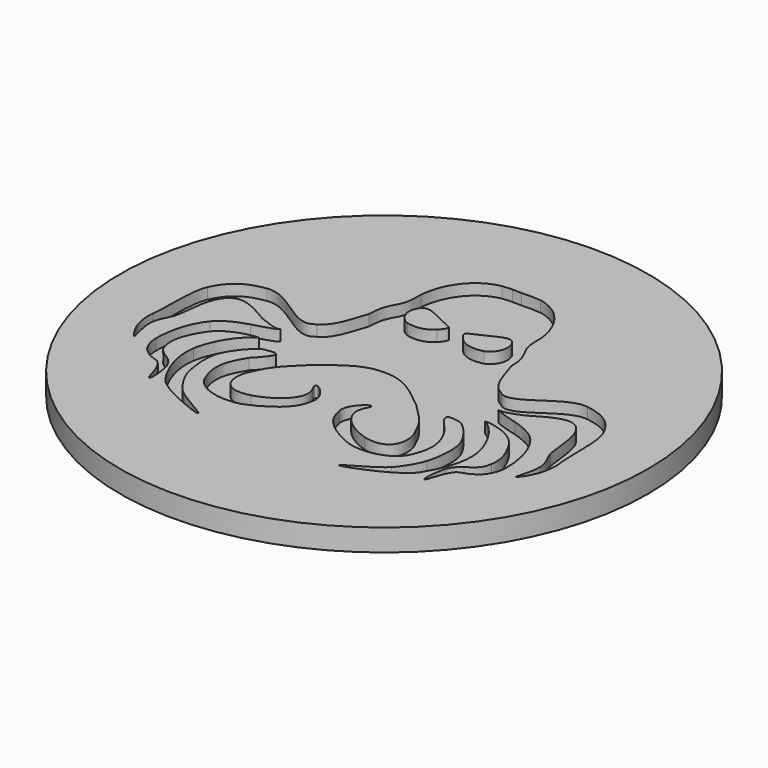
from build123d import *

# Parameters (mm, degrees)
SKETCH001_R  = 120
PAD_DEPTH    = 10
POCKET_DEPTH = 5


with BuildPart() as part:
    # Sketch001 (on DatumPlane) → Pad (new body)
    with BuildSketch(Plane.XY):
        Circle(SKETCH001_R)
    extrude(amount=-PAD_DEPTH)

    # Sketch002 (on DatumPlane) → Pocket (cut)
    with BuildSketch(Plane(origin=(-125, 95, 0), x_dir=(1, 0, 0), z_dir=(0, 0, 1))):
        with BuildLine():
            add(Edge.make_bspline(
                [(121.198817, -17.303386), (119.668431, -17.33213), (118.168322, -17.42203), (116.735185, -17.550077)],
                knots=[0, 0, 0, 0, 1, 1, 1, 1], degree=3))
            add(Edge.make_bspline(
                [(116.735185, -17.550077), (105.612181, -19.815861), (99.212248, -30.266961), (98.366507, -40.708451)],
                knots=[0, 0, 0, 0, 1, 1, 1, 1], degree=3))
            add(Edge.make_bspline(
                [(98.366507, -40.708451), (98.891494, -54.174254), (93.495596, -50.875516), (93.22509, -63.781341)],
                knots=[0, 0, 0, 0, 1, 1, 1, 1], degree=3))
            add(Edge.make_bspline(
                [(93.22509, -63.781341), (91.13871, -69.131156), (89.67416, -78.551192), (83.659114, -81.585801)],
                knots=[0, 0, 0, 0, 1, 1, 1, 1], degree=3))
            add(Edge.make_bspline(
                [(83.659114, -81.585801), (76.281758, -88.290956), (63.465228, -69.485818), (52.690904, -71.114891)],
                knots=[0, 0, 0, 0, 1, 1, 1, 1], degree=3))
            add(Edge.make_bspline(
                [(52.690904, -71.114891), (45.730317, -72.167328), (39.572196, -74.651615), (35.578887, -83.492158)],
                knots=[0, 0, 0, 0, 1, 1, 1, 1], degree=3))
            add(Edge.make_bspline(
                [(35.578887, -83.492158), (32.648549, -89.979455), (34.025795, -105.990633), (33.109539, -111.320558)],
                knots=[0, 0, 0, 0, 1, 1, 1, 1], degree=3))
            add(Edge.make_bspline(
                [(33.109539, -111.320558), (32.760518, -113.350844), (32.800605, -117.633008), (34.38085, -121.99664)],
                knots=[0, 0, 0, 0, 1, 1, 1, 1], degree=3))
            add(Edge.make_bspline(
                [(34.38085, -121.99664), (35.548331, -125.220482), (38.240104, -129.069018), (38.699156, -129.081055)],
                knots=[0, 0, 0, 0, 1, 1, 1, 1], degree=3))
            add(Edge.make_bspline(
                [(38.699156, -129.081055), (39.378896, -129.098875), (36.783547, -122.914906), (36.828216, -117.851748)],
                knots=[0, 0, 0, 0, 1, 1, 1, 1], degree=3))
            add(Edge.make_bspline(
                [(36.828216, -117.851748), (36.866483, -113.514003), (39.51192, -110.458954), (40.279441, -107.659279)],
                knots=[0, 0, 0, 0, 1, 1, 1, 1], degree=3))
            add(Edge.make_bspline(
                [(40.279441, -107.659279), (41.699194, -102.480464), (40.742176, -88.137257), (48.015997, -84.449611)],
                knots=[0, 0, 0, 0, 1, 1, 1, 1], degree=3))
            add(Edge.make_bspline(
                [(48.015997, -84.449611), (53.580981, -81.628301), (63.30285, -89.076257), (65.838778, -90.17112)],
                knots=[0, 0, 0, 0, 1, 1, 1, 1], degree=3))
            add(Edge.make_bspline(
                [(65.838778, -90.17112), (74.319901, -93.832762), (75.226143, -92.783713), (75.929884, -92.663672)],
                knots=[0, 0, 0, 0, 1, 1, 1, 1], degree=3))
            add(Edge.make_bspline(
                [(75.929884, -92.663672), (74.908535, -93.855815), (68.160417, -95.522661), (65.37226, -96.335943)],
                knots=[0, 0, 0, 0, 1, 1, 1, 1], degree=3))
            add(Edge.make_bspline(
                [(65.37226, -96.335943), (60.710497, -97.795523), (55.68363, -99.755191), (52.622515, -103.562021)],
                knots=[0, 0, 0, 0, 1, 1, 1, 1], degree=3))
            add(Edge.make_bspline(
                [(52.622515, -103.562021), (47.789491, -109.572408), (45.856249, -117.959033), (45.800667, -125.671349)],
                knots=[0, 0, 0, 0, 1, 1, 1, 1], degree=3))
            add(Edge.make_bspline(
                [(45.800667, -125.671349), (45.781221, -128.369392), (46.639916, -131.15416), (48.075838, -133.43844)],
                knots=[0, 0, 0, 0, 1, 1, 1, 1], degree=3))
            add(Edge.make_bspline(
                [(48.075838, -133.43844), (49.0352, -134.964604), (50.589346, -136.065013), (52.093718, -137.058194)],
                knots=[0, 0, 0, 0, 1, 1, 1, 1], degree=3))
            add(Edge.make_bspline(
                [(52.093718, -137.058194), (53.859264, -138.223806), (56.374472, -138.21227), (57.853085, -139.725385)],
                knots=[0, 0, 0, 0, 1, 1, 1, 1], degree=3))
            add(Edge.make_bspline(
                [(57.853085, -139.725385), (60.601443, -142.537853), (61.829802, -149.474729), (62.562187, -150.541904)],
                knots=[0, 0, 0, 0, 1, 1, 1, 1], degree=3))
            add(Edge.make_bspline(
                [(62.562187, -150.541904), (63.968649, -152.591299), (63.315999, -143.092028), (62.024844, -139.718057)],
                knots=[0, 0, 0, 0, 1, 1, 1, 1], degree=3))
            add(Edge.make_bspline(
                [(62.024844, -139.718057), (61.244664, -137.679336), (59.755784, -135.780938), (57.900718, -134.63037)],
                knots=[0, 0, 0, 0, 1, 1, 1, 1], degree=3))
            add(Edge.make_bspline(
                [(57.900718, -134.63037), (52.74863, -131.434902), (52.389155, -130.056809), (51.752992, -126.799777)],
                knots=[0, 0, 0, 0, 1, 1, 1, 1], degree=3))
            add(Edge.make_bspline(
                [(51.752992, -126.799777), (50.719831, -121.510201), (53.344622, -115.820499), (56.217847, -111.260719)],
                knots=[0, 0, 0, 0, 1, 1, 1, 1], degree=3))
            add(Edge.make_bspline(
                [(56.217847, -111.260719), (57.765477, -108.804639), (60.171123, -106.847803), (62.730717, -105.478145)],
                knots=[0, 0, 0, 0, 1, 1, 1, 1], degree=3))
            add(Edge.make_bspline(
                [(62.730717, -105.478145), (66.199299, -103.622097), (70.881789, -102.44039), (74.145649, -102.482446)],
                knots=[0, 0, 0, 0, 1, 1, 1, 1], degree=3))
            add(Edge.make_bspline(
                [(74.145649, -102.482446), (68.267083, -105.413885), (62.220218, -115.284845), (61.009992, -123.440143)],
                knots=[0, 0, 0, 0, 1, 1, 1, 1], degree=3))
            add(Edge.make_bspline(
                [(61.009992, -123.440143), (59.795139, -131.626568), (63.049363, -140.434897), (67.517985, -147.400879)],
                knots=[0, 0, 0, 0, 1, 1, 1, 1], degree=3))
            add(Edge.make_bspline(
                [(67.517985, -147.400879), (69.322291, -150.213554), (72.351929, -152.099702), (75.215457, -153.822159)],
                knots=[0, 0, 0, 0, 1, 1, 1, 1], degree=3))
            add(Edge.make_bspline(
                [(75.215457, -153.822159), (80.858595, -157.216583), (93.242216, -162.169767), (93.50475, -161.293707)],
                knots=[0, 0, 0, 0, 1, 1, 1, 1], degree=3))
            add(Edge.make_bspline(
                [(93.50475, -161.293707), (93.813224, -160.264354), (82.264676, -155.288147), (77.968137, -150.732419)],
                knots=[0, 0, 0, 0, 1, 1, 1, 1], degree=3))
            add(Edge.make_bspline(
                [(77.968137, -150.732419), (74.898637, -147.477751), (71.929569, -142.04221), (71.085222, -139.210021)],
                knots=[0, 0, 0, 0, 1, 1, 1, 1], degree=3))
            add(Edge.make_bspline(
                [(71.085222, -139.210021), (69.934197, -135.349149), (68.492126, -126.764211), (70.514903, -121.058727)],
                knots=[0, 0, 0, 0, 1, 1, 1, 1], degree=3))
            add(Edge.make_bspline(
                [(70.514903, -121.058727), (72.37669, -115.807337), (78.789548, -108.486393), (81.446229, -108.414004)],
                knots=[0, 0, 0, 0, 1, 1, 1, 1], degree=3))
            add(Edge.make_bspline(
                [(81.446229, -108.414004), (83.455181, -108.359293), (92.5809, -104.99355), (80.951624, -116.78683)],
                knots=[0, 0, 0, 0, 1, 1, 1, 1], degree=3))
            add(Edge.make_bspline(
                [(80.951624, -116.78683), (75.361353, -125.652522), (75.486339, -130.979783), (78.146434, -137.705453)],
                knots=[0, 0, 0, 0, 1, 1, 1, 1], degree=3))
            add(Edge.make_bspline(
                [(78.146434, -137.705453), (80.881424, -146.123036), (92.916623, -148.512831), (101.209558, -146.07217)],
                knots=[0, 0, 0, 0, 1, 1, 1, 1], degree=3))
            add(Edge.make_bspline(
                [(101.209558, -146.07217), (106.060009, -144.183846), (111.803673, -141.063968), (115.461431, -137.028887)],
                knots=[0, 0, 0, 0, 1, 1, 1, 1], degree=3))
            add(Edge.make_bspline(
                [(115.461431, -137.028887), (117.57341, -134.699031), (118.689007, -132.465568), (119.31078, -128.954043)],
                knots=[0, 0, 0, 0, 1, 1, 1, 1], degree=3))
            add(Edge.make_bspline(
                [(119.31078, -128.954043), (121.719214, -122.881879), (109.199109, -113.547843), (113.638117, -121.476392)],
                knots=[0, 0, 0, 0, 1, 1, 1, 1], degree=3))
            add(Edge.make_bspline(
                [(113.638117, -121.476392), (117.573816, -129.397769), (107.293127, -136.642867), (99.560882, -138.803349)],
                knots=[0, 0, 0, 0, 1, 1, 1, 1], degree=3))
            add(Edge.make_bspline(
                [(99.560882, -138.803349), (85.868905, -142.187437), (85.109984, -130.608251), (88.188694, -124.727334)],
                knots=[0, 0, 0, 0, 1, 1, 1, 1], degree=3))
            add(Edge.make_bspline(
                [(88.188694, -124.727334), (91.83179, -116.146361), (95.05809, -113.989675), (101.056903, -107.909633)],
                knots=[0, 0, 0, 0, 1, 1, 1, 1], degree=3))
            add(Edge.make_bspline(
                [(101.056903, -107.909633), (108.208417, -102.338464), (115.175574, -95.304484), (125.205704, -95.493285)],
                knots=[0, 0, 0, 0, 1, 1, 1, 1], degree=3))
            add(Edge.make_bspline(
                [(125.205704, -95.493285), (125.205704, -95.506729)],
                knots=[0, 0, 0.0215, 0.0215], degree=1))
            add(Edge.make_bspline(
                [(125.205704, -95.506729), (125.299908, -95.502352), (125.391705, -95.503602), (125.485371, -95.500476)],
                knots=[0, 0, 0, 0, 1, 1, 1, 1], degree=3))
            add(Edge.make_bspline(
                [(125.485371, -95.500476), (125.579325, -95.503602), (125.671759, -95.502352), (125.76625, -95.506729)],
                knots=[0, 0, 0, 0, 1, 1, 1, 1], degree=3))
            add(Edge.make_bspline(
                [(125.76625, -95.506729), (125.76625, -95.493285)],
                knots=[0, 0, 0.0215, 0.0215], degree=1))
            add(Edge.make_bspline(
                [(125.76625, -95.493285), (135.796005, -95.304834), (142.763713, -102.338595), (149.915058, -107.909633)],
                knots=[0, 0, 0, 0, 1, 1, 1, 1], degree=3))
            add(Edge.make_bspline(
                [(149.915058, -107.909633), (155.913871, -113.989675), (159.138945, -116.146361), (162.782041, -124.727334)],
                knots=[0, 0, 0, 0, 1, 1, 1, 1], degree=3))
            add(Edge.make_bspline(
                [(162.782041, -124.727334), (165.860751, -130.608251), (165.10183, -142.187437), (151.409853, -138.803349)],
                knots=[0, 0, 0, 0, 1, 1, 1, 1], degree=3))
            add(Edge.make_bspline(
                [(151.409853, -138.803349), (143.677609, -136.642867), (133.396919, -129.397769), (137.332618, -121.476392)],
                knots=[0, 0, 0, 0, 1, 1, 1, 1], degree=3))
            add(Edge.make_bspline(
                [(137.332618, -121.476392), (141.771627, -113.547843), (129.251527, -122.881879), (131.659961, -128.954043)],
                knots=[0, 0, 0, 0, 1, 1, 1, 1], degree=3))
            add(Edge.make_bspline(
                [(131.659961, -128.954043), (132.281735, -132.465568), (133.397331, -134.699031), (135.50931, -137.028887)],
                knots=[0, 0, 0, 0, 1, 1, 1, 1], degree=3))
            add(Edge.make_bspline(
                [(135.50931, -137.028887), (139.167069, -141.063968), (144.910732, -144.183846), (149.761178, -146.07217)],
                knots=[0, 0, 0, 0, 1, 1, 1, 1], degree=3))
            add(Edge.make_bspline(
                [(149.761178, -146.07217), (158.054118, -148.512831), (170.089311, -146.123005), (172.824301, -137.705453)],
                knots=[0, 0, 0, 0, 1, 1, 1, 1], degree=3))
            add(Edge.make_bspline(
                [(172.824301, -137.705453), (175.484396, -130.979783), (175.609382, -125.652522), (170.019111, -116.78683)],
                knots=[0, 0, 0, 0, 1, 1, 1, 1], degree=3))
            add(Edge.make_bspline(
                [(170.019111, -116.78683), (158.389835, -104.99355), (167.51556, -108.359293), (169.524513, -108.414004)],
                knots=[0, 0, 0, 0, 1, 1, 1, 1], degree=3))
            add(Edge.make_bspline(
                [(169.524513, -108.414004), (172.181193, -108.486393), (178.594045, -115.807337), (180.455832, -121.058727)],
                knots=[0, 0, 0, 0, 1, 1, 1, 1], degree=3))
            add(Edge.make_bspline(
                [(180.455832, -121.058727), (182.478609, -126.764211), (181.036538, -135.349149), (179.885513, -139.210021)],
                knots=[0, 0, 0, 0, 1, 1, 1, 1], degree=3))
            add(Edge.make_bspline(
                [(179.885513, -139.210021), (179.041166, -142.04221), (176.072105, -147.477751), (173.002605, -150.732419)],
                knots=[0, 0, 0, 0, 1, 1, 1, 1], degree=3))
            add(Edge.make_bspline(
                [(173.002605, -150.732419), (168.706065, -155.288147), (157.157512, -160.264354), (157.465985, -161.293707)],
                knots=[0, 0, 0, 0, 1, 1, 1, 1], degree=3))
            add(Edge.make_bspline(
                [(157.465985, -161.293707), (157.728519, -162.169767), (170.11214, -157.216583), (175.755278, -153.822159)],
                knots=[0, 0, 0, 0, 1, 1, 1, 1], degree=3))
            add(Edge.make_bspline(
                [(175.755278, -153.822159), (178.618806, -152.099702), (181.648451, -150.213554), (183.452757, -147.400879)],
                knots=[0, 0, 0, 0, 1, 1, 1, 1], degree=3))
            add(Edge.make_bspline(
                [(183.452757, -147.400879), (187.921378, -140.434897), (191.175597, -131.626568), (189.960744, -123.440143)],
                knots=[0, 0, 0, 0, 1, 1, 1, 1], degree=3))
            add(Edge.make_bspline(
                [(189.960744, -123.440143), (188.750518, -115.284845), (182.704871, -105.413885), (176.826305, -102.482446)],
                knots=[0, 0, 0, 0, 1, 1, 1, 1], degree=3))
            add(Edge.make_bspline(
                [(176.826305, -102.482446), (180.090165, -102.440365), (184.772662, -103.622097), (188.241237, -105.478145)],
                knots=[0, 0, 0, 0, 1, 1, 1, 1], degree=3))
            add(Edge.make_bspline(
                [(188.241237, -105.478145), (190.800832, -106.847803), (193.206483, -108.804639), (194.754114, -111.260719)],
                knots=[0, 0, 0, 0, 1, 1, 1, 1], degree=3))
            add(Edge.make_bspline(
                [(194.754114, -111.260719), (197.62734, -115.820499), (200.252126, -121.510201), (199.218965, -126.799777)],
                knots=[0, 0, 0, 0, 1, 1, 1, 1], degree=3))
            add(Edge.make_bspline(
                [(199.218965, -126.799777), (198.582804, -130.056809), (198.223327, -131.434902), (193.071243, -134.63037)],
                knots=[0, 0, 0, 0, 1, 1, 1, 1], degree=3))
            add(Edge.make_bspline(
                [(193.071243, -134.63037), (191.216177, -135.780938), (189.727297, -137.679336), (188.947117, -139.718057)],
                knots=[0, 0, 0, 0, 1, 1, 1, 1], degree=3))
            add(Edge.make_bspline(
                [(188.947117, -139.718057), (187.655961, -143.092028), (187.002086, -152.591299), (188.408548, -150.541904)],
                knots=[0, 0, 0, 0, 1, 1, 1, 1], degree=3))
            add(Edge.make_bspline(
                [(188.408548, -150.541904), (189.140933, -149.474729), (190.370511, -142.537853), (193.11887, -139.725385)],
                knots=[0, 0, 0, 0, 1, 1, 1, 1], degree=3))
            add(Edge.make_bspline(
                [(193.11887, -139.725385), (194.597483, -138.21227), (197.112695, -138.223806), (198.87824, -137.058194)],
                knots=[0, 0, 0, 0, 1, 1, 1, 1], degree=3))
            add(Edge.make_bspline(
                [(198.87824, -137.058194), (200.382614, -136.065013), (201.936754, -134.964604), (202.89612, -133.43844)],
                knots=[0, 0, 0, 0, 1, 1, 1, 1], degree=3))
            add(Edge.make_bspline(
                [(202.89612, -133.43844), (204.332039, -131.15416), (205.189516, -128.369392), (205.17007, -125.671349)],
                knots=[0, 0, 0, 0, 1, 1, 1, 1], degree=3))
            add(Edge.make_bspline(
                [(205.17007, -125.671349), (205.114483, -117.959033), (203.182464, -109.572408), (198.349445, -103.562021)],
                knots=[0, 0, 0, 0, 1, 1, 1, 1], degree=3))
            add(Edge.make_bspline(
                [(198.349445, -103.562021), (195.28833, -99.755191), (190.261457, -97.795523), (185.599694, -96.335943)],
                knots=[0, 0, 0, 0, 1, 1, 1, 1], degree=3))
            add(Edge.make_bspline(
                [(185.599694, -96.335943), (182.811537, -95.522661), (176.0622, -93.855815), (175.040851, -92.663672)],
                knots=[0, 0, 0, 0, 1, 1, 1, 1], degree=3))
            add(Edge.make_bspline(
                [(175.040851, -92.663672), (175.744592, -92.783713), (176.65206, -93.832762), (185.133183, -90.17112)],
                knots=[0, 0, 0, 0, 1, 1, 1, 1], degree=3))
            add(Edge.make_bspline(
                [(185.133183, -90.17112), (187.669111, -89.076257), (197.389754, -81.628301), (202.954739, -84.449611)],
                knots=[0, 0, 0, 0, 1, 1, 1, 1], degree=3))
            add(Edge.make_bspline(
                [(202.954739, -84.449611), (210.228563, -88.137257), (209.271542, -102.480464), (210.691298, -107.659279)],
                knots=[0, 0, 0, 0, 1, 1, 1, 1], degree=3))
            add(Edge.make_bspline(
                [(210.691298, -107.659279), (211.458816, -110.458954), (214.104255, -113.514003), (214.142522, -117.851748)],
                knots=[0, 0, 0, 0, 1, 1, 1, 1], degree=3))
            add(Edge.make_bspline(
                [(214.142522, -117.851748), (214.187166, -122.914906), (211.593057, -129.098875), (212.272799, -129.081055)],
                knots=[0, 0, 0, 0, 1, 1, 1, 1], degree=3))
            add(Edge.make_bspline(
                [(212.272799, -129.081055), (212.731851, -129.06905), (215.422403, -125.220482), (216.589885, -121.99664)],
                knots=[0, 0, 0, 0, 1, 1, 1, 1], degree=3))
            add(Edge.make_bspline(
                [(216.589885, -121.99664), (218.17013, -117.633008), (218.210217, -113.350844), (217.861194, -111.320558)],
                knots=[0, 0, 0, 0, 1, 1, 1, 1], degree=3))
            add(Edge.make_bspline(
                [(217.861194, -111.320558), (216.944942, -105.990633), (218.322191, -89.979455), (215.391852, -83.492158)],
                knots=[0, 0, 0, 0, 1, 1, 1, 1], degree=3))
            add(Edge.make_bspline(
                [(215.391852, -83.492158), (211.398546, -74.651615), (205.240419, -72.167328), (198.279833, -71.114891)],
                knots=[0, 0, 0, 0, 1, 1, 1, 1], degree=3))
            add(Edge.make_bspline(
                [(198.279833, -71.114891), (187.505514, -69.485818), (174.690203, -88.290956), (167.312846, -81.585801)],
                knots=[0, 0, 0, 0, 1, 1, 1, 1], degree=3))
            add(Edge.make_bspline(
                [(167.312846, -81.585801), (161.297801, -78.551192), (159.833251, -69.131156), (157.746871, -63.781341)],
                knots=[0, 0, 0, 0, 1, 1, 1, 1], degree=3))
            add(Edge.make_bspline(
                [(157.746871, -63.781341), (157.476364, -50.875516), (152.08046, -54.174254), (152.605447, -40.708451)],
                knots=[0, 0, 0, 0, 1, 1, 1, 1], degree=3))
            add(Edge.make_bspline(
                [(152.605447, -40.708451), (151.759707, -30.266961), (145.35978, -19.815861), (134.236776, -17.550077)],
                knots=[0, 0, 0, 0, 1, 1, 1, 1], degree=3))
            add(Edge.make_bspline(
                [(134.236776, -17.550077), (131.480476, -17.303809), (128.475992, -17.207833), (125.485371, -17.404749)],
                knots=[0, 0, 0, 0, 1, 1, 1, 1], degree=3))
            add(Edge.make_bspline(
                [(125.485371, -17.404749), (124.050064, -17.310275), (122.611419, -17.276854), (121.198817, -17.303386)],
                knots=[0, 0, 0, 0, 1, 1, 1, 1], degree=3))
        make_face()
        with BuildLine():
            add(Edge.make_bspline(
                [(119.505731, -58.152662), (116.058286, -61.847812), (110.636063, -61.406764), (108.094784, -60.673535)],
                knots=[0, 0, 0, 0, 1, 1, 1, 1], degree=3))
            add(Edge.make_bspline(
                [(108.094784, -60.673535), (105.827952, -60.019901), (101.321376, -55.801185), (103.899397, -50.087747)],
                knots=[0, 0, 0, 0, 1, 1, 1, 1], degree=3))
            add(Edge.make_bspline(
                [(103.899397, -50.087747), (106.318928, -44.725777), (111.873291, -49.99488), (121.616214, -53.983471)],
                knots=[0, 0, 0, 0, 1, 1, 1, 1], degree=3))
            add(Edge.make_bspline(
                [(121.616214, -53.983471), (121.616214, -53.983471), (122.898167, -54.515945), (119.505731, -58.152662)],
                knots=[0, 0, 0, 0, 1, 1, 1, 1], degree=3))
        make_face(mode=Mode.SUBTRACT)
        with BuildLine():
            add(Edge.make_bspline(
                [(131.465574, -58.152662), (134.913019, -61.847812), (140.335241, -61.406764), (142.87652, -60.673535)],
                knots=[0, 0, 0, 0, 1, 1, 1, 1], degree=3))
            add(Edge.make_bspline(
                [(142.87652, -60.673535), (145.143352, -60.019901), (149.649928, -55.801185), (147.071907, -50.087747)],
                knots=[0, 0, 0, 0, 1, 1, 1, 1], degree=3))
            add(Edge.make_bspline(
                [(147.071907, -50.087747), (144.652376, -44.725777), (139.098014, -49.99488), (129.355091, -53.983471)],
                knots=[0, 0, 0, 0, 1, 1, 1, 1], degree=3))
            add(Edge.make_bspline(
                [(129.355091, -53.983471), (129.355091, -53.983471), (128.073138, -54.515945), (131.465574, -58.152662)],
                knots=[0, 0, 0, 0, 1, 1, 1, 1], degree=3))
        make_face(mode=Mode.SUBTRACT)
    extrude(amount=-POCKET_DEPTH, mode=Mode.SUBTRACT)


solid = part.part
